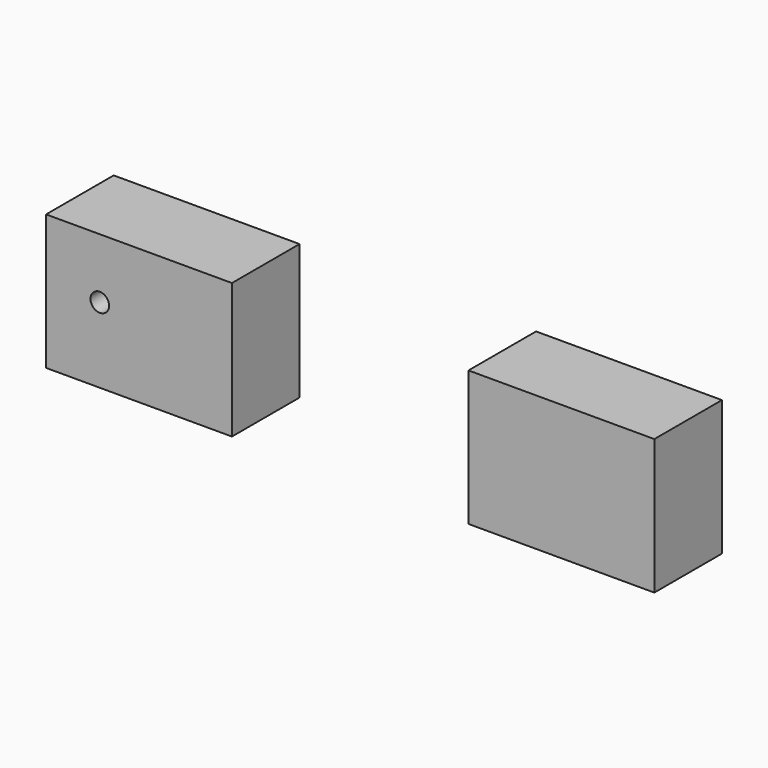
from build123d import *

# Parameters (mm, degrees)
F0_W           = 54.999999851
F0_H           = 40
F1_DEPTH       = 25
F0_W_2         = 55
F2_D           = 5.5
F2_CSINK_D     = 11.2
F2_CSINK_ANGLE = 90


with BuildPart() as f1:
    # F0 (on Front) → F1 (new body)
    with BuildSketch(Plane.XZ):
        with Locations((-62.5000000745, 0)):
            Rectangle(F0_W, F0_H)
    extrude(amount=F1_DEPTH)

    # F2 (through all)
    with Locations(Plane(origin=(0, 0, 0), x_dir=(1, 0, 0), z_dir=(0, 1, 0))):
        with Locations((-74.10171628, -2.2711590864)):
            CounterSinkHole(F2_D / 2, F2_CSINK_D / 2, counter_sink_angle=F2_CSINK_ANGLE)


with BuildPart() as f1b:
    # F0 (on Front) → F1, piece 2 (new body)
    with BuildSketch(Plane.XZ):
        with Locations((62.5, 0)):
            Rectangle(F0_W_2, F0_H)
    extrude(amount=F1_DEPTH)


solid = Compound([f1.part, f1b.part])
